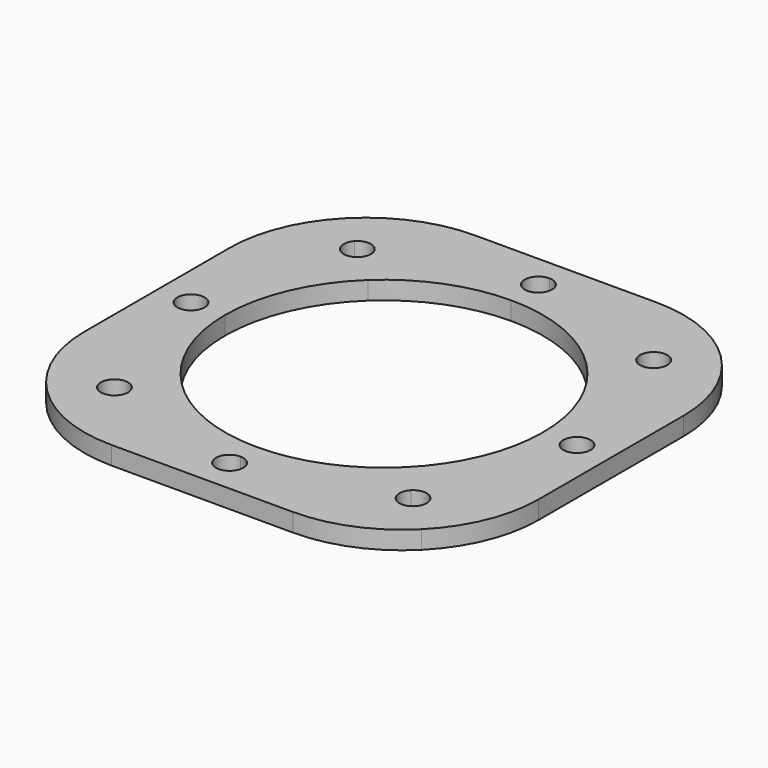
from build123d import *

# Parameters (mm, degrees)
F1_DEPTH = 10.16


with BuildPart() as f1:
    # F0 (on Top) → F1 (new body)
    with BuildSketch(Plane.XY):
        with BuildLine():
            Line((-127, 50.8), (-127, 0))
            Line((-127, 0), (-115.57, 0))
            ThreePointArc((-115.57, 0), (-107.95, 7.62), (-100.33, 0))
            Line((-100.33, 0), (-88.9, 0))
            ThreePointArc((-88.9, 0), (-81.572297, 35.343604), (-60.79718, 64.860719))
            Line((-60.79718, 64.860719), (-77.096278, 79.650577))
            ThreePointArc((-77.096278, 79.650577), (-87.859909, 79.128047), (-88.382439, 89.891679))
            Line((-88.382439, 89.891679), (-104.681537, 104.681537))
            ThreePointArc((-104.681537, 104.681537), (-121.19962, 79.960478), (-127, 50.8))
        make_face()
        with BuildLine():
            ThreePointArc((-50.8, 127), (-79.960478, 121.19962), (-104.681537, 104.681537))
            Line((-104.681537, 104.681537), (-88.382439, 89.891679))
            ThreePointArc((-88.382439, 89.891679), (-79.994898, 91.879738), (-75.119358, 84.771128))
            ThreePointArc((-75.119358, 84.771128), (-75.630748, 82.026668), (-77.096278, 79.650577))
            Line((-77.096278, 79.650577), (-60.79718, 64.860719))
            ThreePointArc((-60.79718, 64.860719), (-32.688622, 82.672027), (0, 88.9))
            Line((0, 88.9), (0, 100.33))
            ThreePointArc((0, 100.33), (-7.62, 107.95), (0, 115.57))
            Line((0, 115.57), (0, 127))
            Line((0, 127), (-50.8, 127))
        make_face()
        with BuildLine():
            Line((89.270123, 89.048531), (104.681537, 104.681537))
            ThreePointArc((104.681537, 104.681537), (79.960478, 121.19962), (50.8, 127))
            Line((50.8, 127), (0, 127))
            Line((0, 127), (0, 115.57))
            ThreePointArc((0, 115.57), (5.388154, 113.338154), (7.62, 107.95))
            ThreePointArc((7.62, 107.95), (5.388154, 102.561846), (0, 100.33))
            Line((0, 100.33), (0, 88.9))
            ThreePointArc((0, 88.9), (34.215472, 82.051883), (63.159593, 62.562575))
            Line((63.159593, 62.562575), (78.571008, 78.19558))
            ThreePointArc((78.571008, 78.19558), (78.49409, 88.971613), (89.270123, 89.048531))
        make_face()
        with BuildLine():
            Line((115.57, 0), (127, 0))
            Line((127, 0), (127, 50.8))
            ThreePointArc((127, 50.8), (121.19962, 79.960478), (104.681537, 104.681537))
            Line((104.681537, 104.681537), (89.270123, 89.048531))
            ThreePointArc((89.270123, 89.048531), (90.950075, 86.56321), (91.540565, 83.622056))
            ThreePointArc((91.540565, 83.622056), (86.861719, 76.592545), (78.571008, 78.19558))
            Line((78.571008, 78.19558), (63.159593, 62.562575))
            ThreePointArc((63.159593, 62.562575), (82.213435, 33.82545), (88.9, 0))
            Line((88.9, 0), (100.33, 0))
            ThreePointArc((100.33, 0), (107.95, 7.62), (115.57, 0))
        make_face()
        with BuildLine():
            Line((88.958455, -89.357986), (104.681537, -104.681537))
            ThreePointArc((104.681537, -104.681537), (121.19962, -79.960478), (127, -50.8))
            Line((127, -50.8), (127, 0))
            Line((127, 0), (115.57, 0))
            ThreePointArc((115.57, 0), (107.95, -7.62), (100.33, 0))
            Line((100.33, 0), (88.9, 0))
            ThreePointArc((88.9, 0), (81.986502, -34.371843), (62.321292, -63.397685))
            Line((62.321292, -63.397685), (78.044374, -78.721236))
            ThreePointArc((78.044374, -78.721236), (86.372107, -76.981033), (91.121415, -84.039611))
            ThreePointArc((91.121415, -84.039611), (90.559993, -86.910304), (88.958455, -89.357986))
        make_face()
        with BuildLine():
            Line((0, -115.57), (0, -127))
            Line((0, -127), (50.8, -127))
            ThreePointArc((50.8, -127), (79.960478, -121.19962), (104.681537, -104.681537))
            Line((104.681537, -104.681537), (88.958455, -89.357986))
            ThreePointArc((88.958455, -89.357986), (78.18304, -89.496652), (78.044374, -78.721236))
            Line((78.044374, -78.721236), (62.321292, -63.397685))
            ThreePointArc((62.321292, -63.397685), (33.668648, -82.277774), (0, -88.9))
            Line((0, -88.9), (0, -100.33))
            ThreePointArc((0, -100.33), (5.388154, -102.561846), (7.62, -107.95))
            ThreePointArc((7.62, -107.95), (5.388154, -113.338154), (0, -115.57))
        make_face()
        with BuildLine():
            ThreePointArc((-104.681537, -104.681537), (-79.960478, -121.19962), (-50.8, -127))
            Line((-50.8, -127), (0, -127))
            Line((0, -127), (0, -115.57))
            ThreePointArc((0, -115.57), (-7.62, -107.95), (0, -100.33))
            Line((0, -100.33), (0, -88.9))
            ThreePointArc((0, -88.9), (-34.133071, -82.086195), (-63.033834, -62.689279))
            Line((-63.033834, -62.689279), (-78.491774, -78.275104))
            ThreePointArc((-78.491774, -78.275104), (-76.823745, -80.754866), (-76.237686, -83.685408))
            ThreePointArc((-76.237686, -83.685408), (-80.927144, -90.719349), (-89.223597, -89.095712))
            Line((-89.223597, -89.095712), (-104.681537, -104.681537))
        make_face()
        with BuildLine():
            ThreePointArc((-127, -50.8), (-121.19962, -79.960478), (-104.681537, -104.681537))
            Line((-104.681537, -104.681537), (-89.223597, -89.095712))
            ThreePointArc((-89.223597, -89.095712), (-89.26799, -78.319496), (-78.491774, -78.275104))
            Line((-78.491774, -78.275104), (-63.033834, -62.689279))
            ThreePointArc((-63.033834, -62.689279), (-82.179431, -33.907979), (-88.9, 0))
            Line((-88.9, 0), (-100.33, 0))
            ThreePointArc((-100.33, 0), (-107.95, -7.62), (-115.57, 0))
            Line((-115.57, 0), (-127, 0))
            Line((-127, 0), (-127, -50.8))
        make_face()
    extrude(amount=F1_DEPTH)


solid = f1.part
